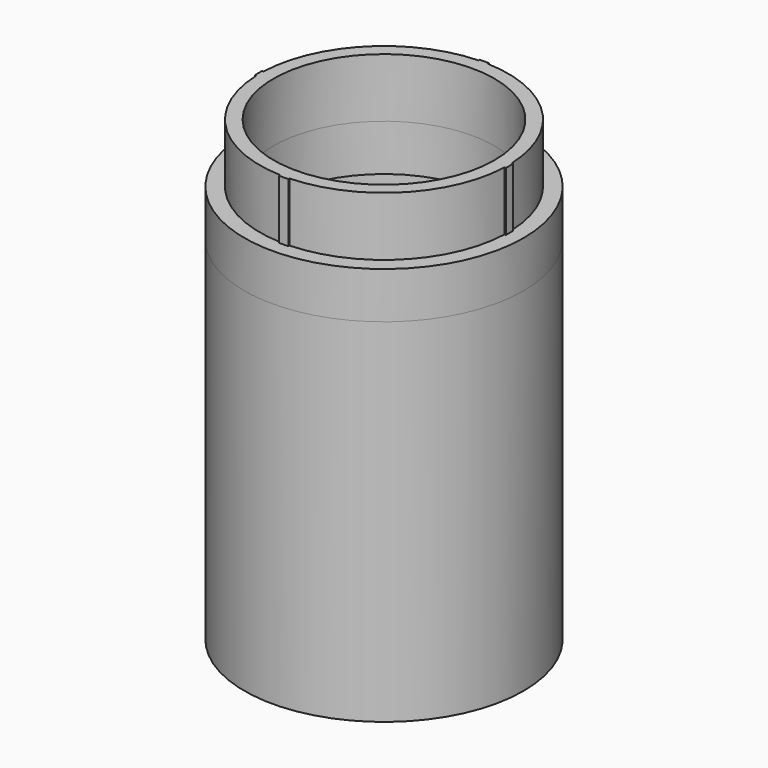
from build123d import *

# Parameters (mm, degrees)
F0_R     = 11.875
F1_DEPTH = 6.35
F2_R     = 15
F2_R_2   = 13.5
F3_DEPTH = 42.8625
F4_R     = 15
F4_R_2   = 11.875
F5_DEPTH = 5


with BuildPart() as f1:
    # F0 (on Top) → F1 (new body)
    with BuildSketch(Plane.XY):
        with BuildLine():
            ThreePointArc((13.340633, -0.5), (13.347658, -0.250044), (13.35, 0))
            ThreePointArc((13.35, 0), (13.347658, 0.250044), (13.340633, 0.5))
            ThreePointArc((13.340633, 0.5), (9.439876, 9.439876), (0.5, 13.340633))
            ThreePointArc((0.5, 13.340633), (0, 13.35), (-0.5, 13.340633))
            ThreePointArc((-0.5, 13.340633), (-9.439876, 9.439876), (-13.340633, 0.5))
            ThreePointArc((-13.340633, 0.5), (-13.35, 0), (-13.340633, -0.5))
            ThreePointArc((-13.340633, -0.5), (-9.439876, -9.439876), (-0.5, -13.340633))
            ThreePointArc((-0.5, -13.340633), (0, -13.35), (0.5, -13.340633))
            ThreePointArc((0.5, -13.340633), (9.439876, -9.439876), (13.340633, -0.5))
        make_face()
        Circle(F0_R, mode=Mode.SUBTRACT)
        with BuildLine():
            ThreePointArc((13.340633, 0.5), (13.347658, 0.250044), (13.35, 0))
            ThreePointArc((13.35, 0), (13.347658, -0.250044), (13.340633, -0.5))
            Line((13.340633, -0.5), (13.490738, -0.5))
            ThreePointArc((13.490738, -0.5), (13.5, 0), (13.490738, 0.5))
            Line((13.490738, 0.5), (13.340633, 0.5))
        make_face()
        with BuildLine():
            ThreePointArc((-0.5, 13.340633), (0, 13.35), (0.5, 13.340633))
            Line((0.5, 13.340633), (0.5, 13.490738))
            ThreePointArc((0.5, 13.490738), (0, 13.5), (-0.5, 13.490738))
            Line((-0.5, 13.490738), (-0.5, 13.340633))
        make_face()
        with BuildLine():
            Line((0.5, -13.490738), (0.5, -13.340633))
            ThreePointArc((0.5, -13.340633), (0, -13.35), (-0.5, -13.340633))
            Line((-0.5, -13.340633), (-0.5, -13.490738))
            ThreePointArc((-0.5, -13.490738), (0, -13.5), (0.5, -13.490738))
        make_face()
        with BuildLine():
            ThreePointArc((-13.340633, -0.5), (-13.35, 0), (-13.340633, 0.5))
            Line((-13.340633, 0.5), (-13.490738, 0.5))
            ThreePointArc((-13.490738, 0.5), (-13.5, 0), (-13.490738, -0.5))
            Line((-13.490738, -0.5), (-13.340633, -0.5))
        make_face()
    extrude(amount=F1_DEPTH)

    # F2 (on Top) → F3 (join)
    with BuildSketch(Plane.XY):
        Circle(F2_R)
        Circle(F2_R_2, mode=Mode.SUBTRACT)
    extrude(amount=-F3_DEPTH)


with BuildPart() as f5:
    # F4 (on Top) → F5 (new body)
    with BuildSketch(Plane.XY):
        Circle(F4_R)
        Circle(F4_R_2, mode=Mode.SUBTRACT)
    extrude(amount=-F5_DEPTH)


solid = Compound([f1.part, f5.part])
